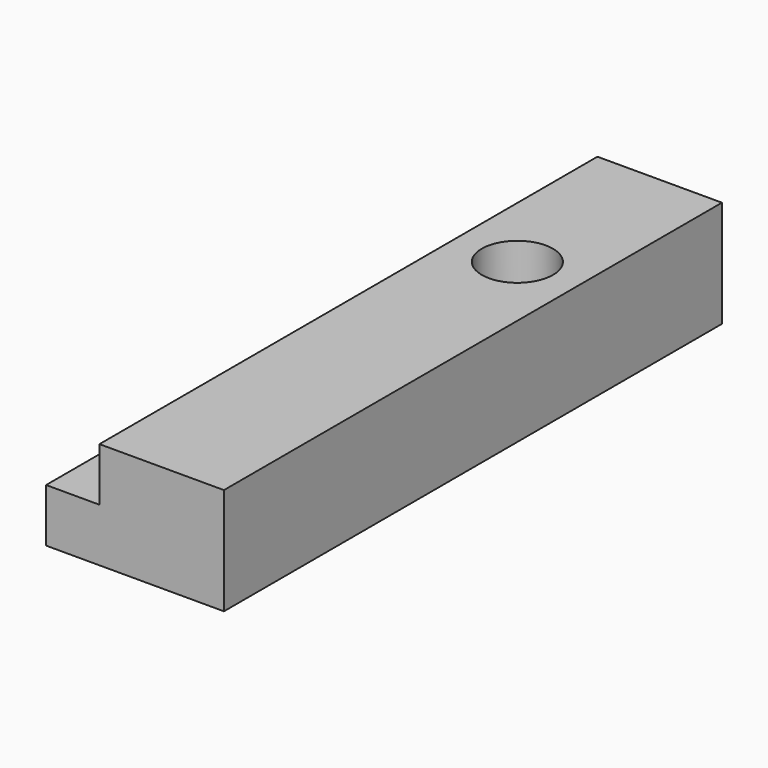
from build123d import *

# Parameters (mm, degrees)
F0_W     = 10
F0_H     = 35
F1_DEPTH = 6
F2_W     = 3
F2_H     = 35
F3_DEPTH = 3
F5_DEPTH = 25


with BuildPart() as f1:
    # F0 (on Top) → F1 (new body)
    with BuildSketch(Plane.XY):
        with Locations((5, 17.5)):
            Rectangle(F0_W, F0_H)
    extrude(amount=F1_DEPTH)

    # F2 (on face) → F3 (cut)
    with BuildSketch(Plane.XY.offset(6)):
        with Locations((1.5, 17.5)):
            Rectangle(F2_W, F2_H)
    extrude(amount=-F3_DEPTH, mode=Mode.SUBTRACT)

    # F4 (on face) → F5 (cut)
    with BuildSketch(Plane.XY.offset(6)):
        with BuildLine():
            ThreePointArc((6.5, 23), (7.914214, 23.585786), (8.5, 25))
            ThreePointArc((8.5, 25), (5.085786, 26.414214), (6.5, 23))
        make_face()
    extrude(amount=-F5_DEPTH, mode=Mode.SUBTRACT)


solid = f1.part
